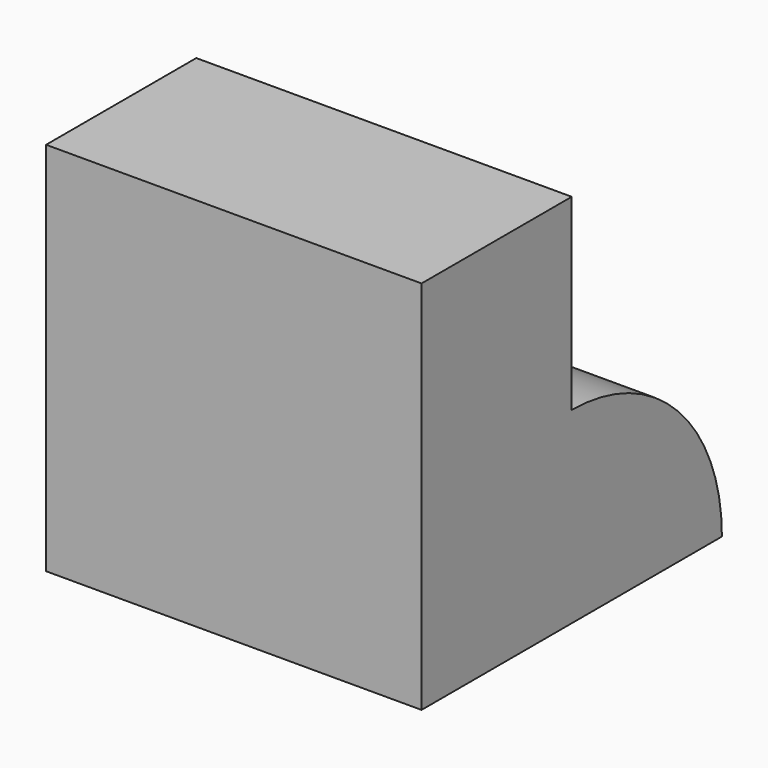
from build123d import *

# Parameters (mm, degrees)
F0_W     = 50.8
F0_H     = 50.8
F1_DEPTH = 25.4
F3_DEPTH = 50.8


with BuildPart() as f1:
    # F0 (on Front) → F1 (new body)
    with BuildSketch(Plane.XZ):
        with Locations((-25.4, 25.4)):
            Rectangle(F0_W, F0_H)
    extrude(amount=F1_DEPTH)

    # F2 (on Right) → F3 (join)
    with BuildSketch(Plane.YZ):
        with BuildLine():
            Line((0, 25.4), (0, 0))
            Line((0, 0), (25.4, 0))
            ThreePointArc((25.4, 0), (17.960512, 17.960512), (0, 25.4))
        make_face()
    extrude(amount=-F3_DEPTH)


solid = f1.part
